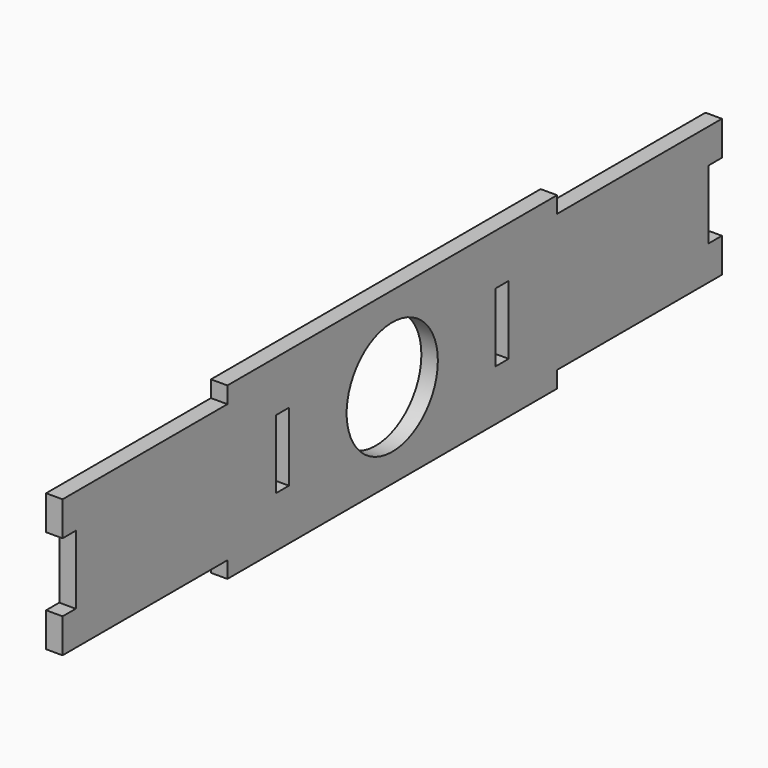
from build123d import *

# Parameters (mm, degrees)
F0_W     = 150
F0_H     = 6
F1_DEPTH = 6
F2_R     = 20.75
F3_DEPTH = 6
F4_W     = 6
F4_H     = 25
F5_DEPTH = 6


with BuildPart() as f1:
    # F0 (on Right) → F1 (new body)
    with BuildSketch(Plane.YZ):
        Polygon((-75, 25), (-150, 25), (-150, 12.5), (-144, 12.5), (-144, -12.5), (-150, -12.5), (-150, -25), (-75, -25), (-75, -19), (75, -19), (75, -25), (150, -25), (150, -12.5), (144, -12.5), (144, 12.5), (150, 12.5), (150, 25), (75, 25), (75, 19), (-75, 19), align=None)
        with Locations((0, 28)):
            Rectangle(F0_W, F0_H)
        with Locations((0, 22)):
            Rectangle(F0_W, F0_H)
        with Locations((0, -28)):
            Rectangle(F0_W, F0_H)
        with Locations((0, -22)):
            Rectangle(F0_W, F0_H)
    extrude(amount=F1_DEPTH)

    # F2 (on face) → F3 (cut, through all)
    with BuildSketch(Plane.YZ.offset(6)):
        Circle(F2_R)
    extrude(amount=-F3_DEPTH, mode=Mode.SUBTRACT)

    # F4 (on face) → F5 (cut, through all)
    with BuildSketch(Plane.YZ.offset(6)):
        with Locations((-50, 0)):
            Rectangle(F4_W, F4_H)
        with Locations((50, 0)):
            Rectangle(F4_W, F4_H)
    extrude(amount=-F5_DEPTH, mode=Mode.SUBTRACT)


solid = f1.part
